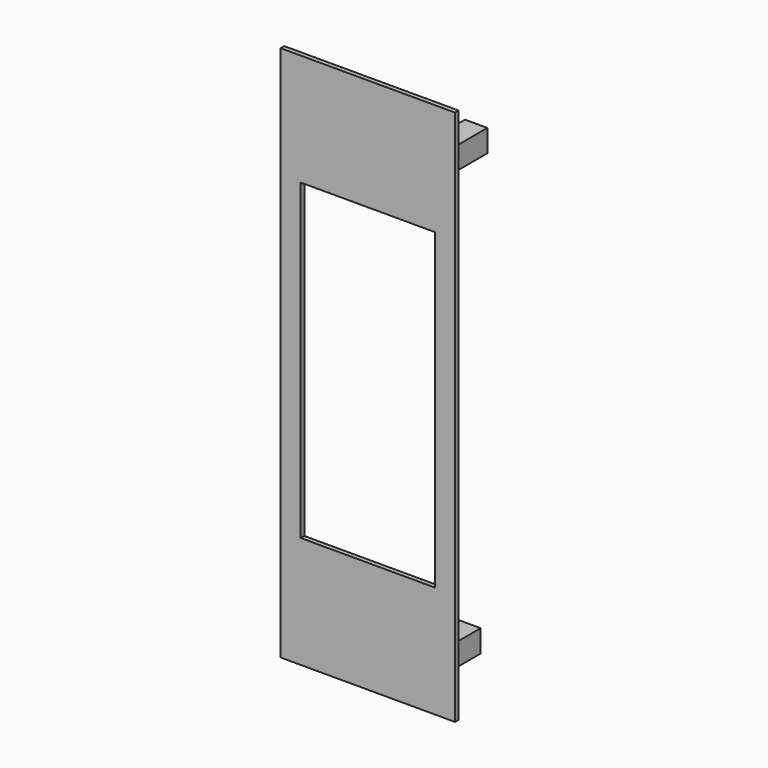
from build123d import *

# Parameters (mm, degrees)
SKETCH_W        = 39
SKETCH_H        = 1
PAD_DEPTH       = 120
SKETCH001_W     = 5
SKETCH001_H     = 5
PAD001_DEPTH    = 11.5
SKETCH003_R     = 0.75
POCKET_DEPTH    = 5
SKETCH002_R     = 0.75
POCKET001_DEPTH = 5
SKETCH004_W     = 30
SKETCH004_H     = 70
POCKET002_DEPTH = 5


with BuildPart() as part:
    # Sketch → Pad (new body)
    with BuildSketch(Plane.XY):
        with Locations((19.5, 0.5)):
            Rectangle(SKETCH_W, SKETCH_H)
    extrude(amount=PAD_DEPTH)

    # Sketch001 → Pad001 (new body)
    with BuildSketch(Plane(origin=(0, 1, 0), x_dir=(-1, 0, 0), z_dir=(0, 1, 0))):
        with Locations((-33.75, 108.5)):
            Rectangle(SKETCH001_W, SKETCH001_H)
        with Locations((-5.25, 108.5)):
            Rectangle(SKETCH001_W, SKETCH001_H)
        with Locations((-32.25, 9.5)):
            Rectangle(SKETCH001_W, SKETCH001_H)
        with Locations((-6.75, 9.5)):
            Rectangle(SKETCH001_W, SKETCH001_H)
    extrude(amount=PAD001_DEPTH)

    # Sketch003 → Pocket (cut)
    with BuildSketch(Plane.XY.offset(111)):
        with Locations((5.75, 7)):
            Circle(SKETCH003_R)
        with Locations((33.25, 7)):
            Circle(SKETCH003_R)
    extrude(amount=-POCKET_DEPTH, mode=Mode.SUBTRACT)

    # Sketch002 → Pocket001 (cut)
    with BuildSketch(Plane(origin=(0, 0, 7), x_dir=(1, 0, 0), z_dir=(0, 0, -1))):
        with Locations((31, -5.2)):
            Circle(SKETCH002_R)
        with Locations((8, -5.2)):
            Circle(SKETCH002_R)
    extrude(amount=-POCKET001_DEPTH, mode=Mode.SUBTRACT)

    # Sketch004 → Pocket002 (cut)
    with BuildSketch(Plane(origin=(0, 1, 0), x_dir=(-1, 0, 0), z_dir=(0, 1, 0))):
        with Locations((-19.5, 60)):
            Rectangle(SKETCH004_W, SKETCH004_H)
    extrude(amount=-POCKET002_DEPTH, mode=Mode.SUBTRACT)


solid = part.part
